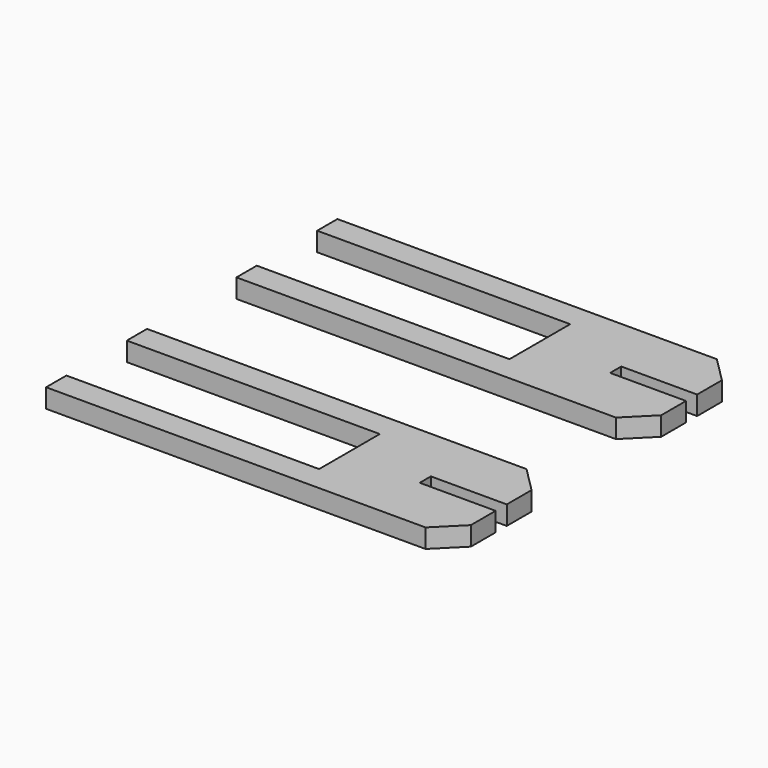
from build123d import *

# Parameters (mm, degrees)
F1_DEPTH = 3


with BuildPart() as f1:
    # F0 (on Top) → F1 (new body)
    with BuildSketch(Plane.XY):
        Polygon((-18.057461, 15.36276), (-58.049636, 15.402677), (-58.049636, 11.383481), (1.960599, 11.383481), (5.941385, 15.36276), (5.941385, 20.258059), (-6.059552, 20.258059), (-6.059552, 22.456687), (5.941385, 22.456687), (5.941385, 27.358638), (1.942999, 31.358537), (-58.06499, 31.358537), (-58.06499, 27.358638), (-18.057461, 27.358638), align=None)
        Polygon((-18.057461, -22.264868), (-58.049636, -22.224951), (-58.049636, -26.244147), (1.960599, -26.244147), (5.941385, -22.264868), (5.941385, -17.369569), (-6.059552, -17.369569), (-6.059552, -15.170941), (5.941385, -15.170941), (5.941385, -10.26899), (1.942999, -6.269091), (-58.06499, -6.269091), (-58.06499, -10.26899), (-18.057461, -10.26899), align=None)
    extrude(amount=F1_DEPTH)


solid = f1.part
